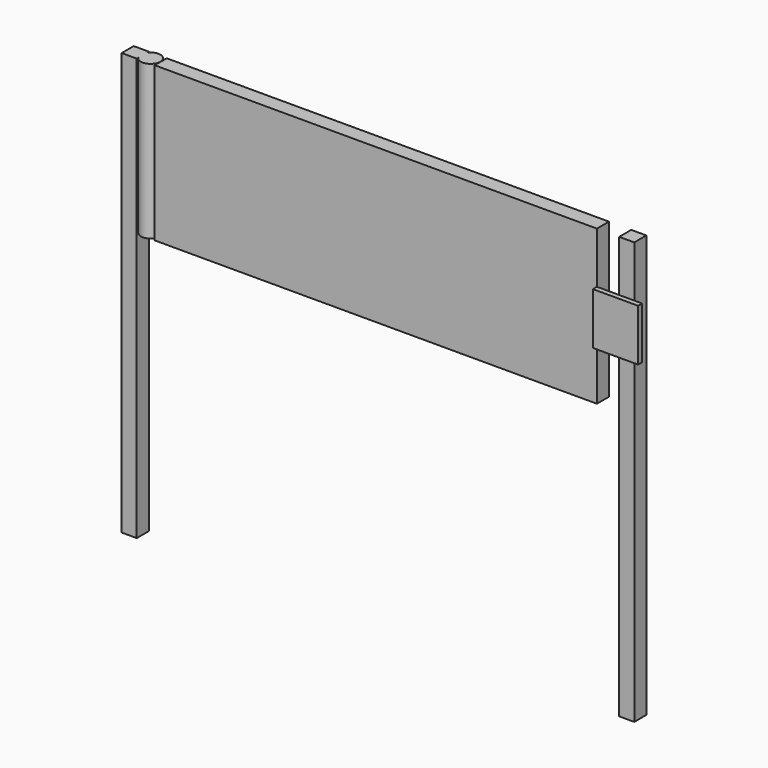
from build123d import *

# Parameters (mm, degrees)
F0_W     = 38.1
F0_H     = 1066.8
F0_W_2   = 1117.6
F0_H_2   = 389.671327
F1_DEPTH = 38.1
F3_DEPTH = 388.62
F5_DEPTH = 12.7


with BuildPart() as f1:
    # F0 (on Front) → F1 (new body)
    with BuildSketch(Plane.XZ):
        with Locations((615.656533, 533.4)):
            Rectangle(F0_W, F0_H)
        with Locations((-641.643467, 533.4)):
            Rectangle(F0_W, F0_H)
        with Locations((-18.532595, 871.964336)):
            Rectangle(F0_W_2, F0_H_2)
    extrude(amount=F1_DEPTH)

    # F2 (on face) → F3 (join)
    with BuildSketch(Plane.XY.offset(1066.8)):
        with BuildLine():
            ThreePointArc((-622.593467, -33.312779), (-595.183041, -42.885023), (-577.947038, -19.520959))
            ThreePointArc((-577.947038, -19.520959), (-595.183041, 3.843105), (-622.593467, -5.729139))
            Line((-622.593467, -5.729139), (-622.593467, -33.312779))
        make_face()
    extrude(amount=-F3_DEPTH)

    # F4 (on face) → F5 (join)
    with BuildSketch(Plane.XZ.offset(38.1)):
        Polygon((654.584706, 806.53453), (654.584706, 871.964336), (654.584706, 937.394142), (540.267405, 937.394142), (540.267405, 871.964336), (540.267405, 806.53453), align=None)
    extrude(amount=F5_DEPTH)


solid = f1.part
